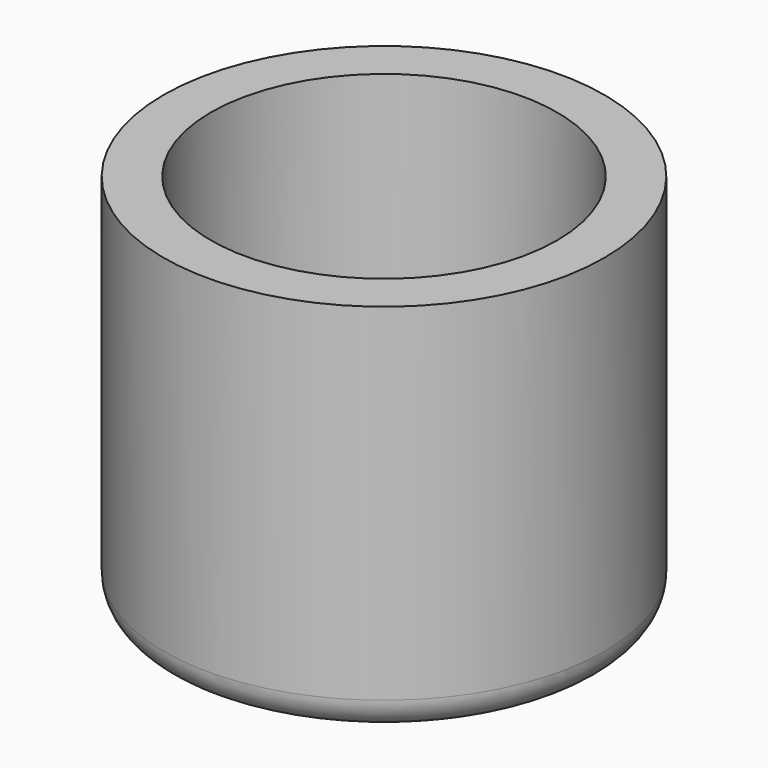
from build123d import *

# Parameters (mm, degrees)
F0_R     = 7
F1_DEPTH = 12
F2_T     = -1.5
F3_R     = 1


with BuildPart() as f1:
    # F0 (on Top) → F1 (new body)
    with BuildSketch(Plane.XY):
        Circle(F0_R)
    extrude(amount=F1_DEPTH)

    # F2
    f2_openings = [f1.faces().sort_by_distance(p)[0] for p in [
        (0, 0, 12),
    ]]
    offset(amount=F2_T, openings=f2_openings)

    # F3
    f3_edges = [f1.edges().sort_by_distance(p)[0] for p in [
        (-7, 0, 0),
    ]]
    fillet(f3_edges, radius=F3_R)


solid = f1.part
